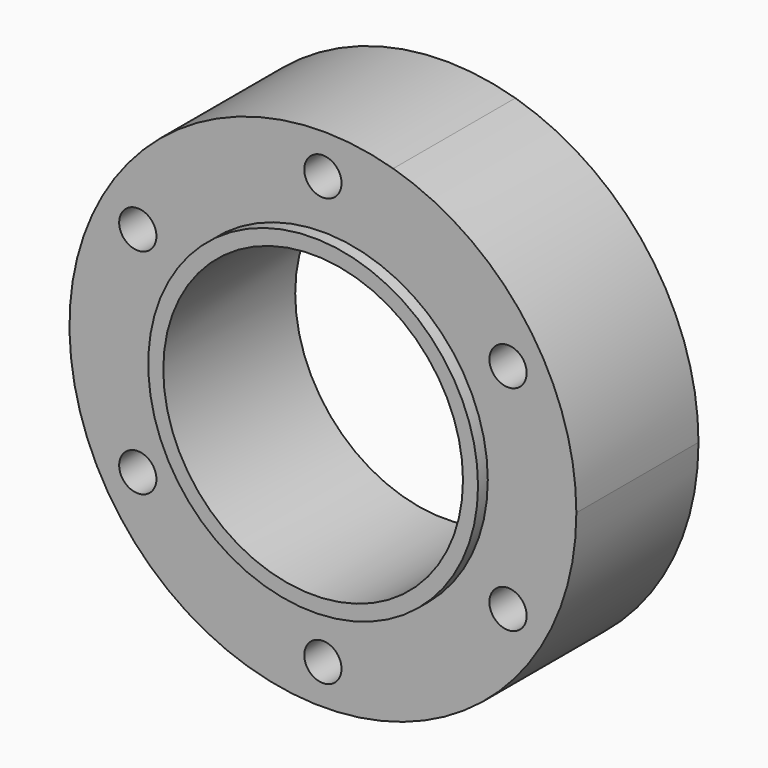
from build123d import *

# Parameters (mm, degrees)
F0_R     = 3.05
F0_R_2   = 27
F1_DEPTH = 25
F3_DEPTH = 27
F4_R     = 24.536421
F5_DEPTH = 27


with BuildPart() as f1:
    # F0 (on Front) → F1 (new body)
    with BuildSketch(Plane.XZ):
        with BuildLine():
            ThreePointArc((11.511698, 39.871429), (-33.166138, -24.945085), (41.5, 0))
            ThreePointArc((41.5, 0), (33.166138, 24.945085), (11.511698, 39.871429))
        make_face()
        with Locations((-30.310889, -17.5)):
            Circle(F0_R, mode=Mode.SUBTRACT)
        with Locations((0, -35)):
            Circle(F0_R, mode=Mode.SUBTRACT)
        with BuildLine():
            ThreePointArc((32.952267, -19.025), (27.364815, -16.710602), (33.360889, -17.5))
            ThreePointArc((33.360889, -17.5), (33.256963, -18.289398), (32.952267, -19.025))
        make_face(mode=Mode.SUBTRACT)
        with Locations((-30.310889, 17.5)):
            Circle(F0_R, mode=Mode.SUBTRACT)
        Circle(F0_R_2, mode=Mode.SUBTRACT)
        with BuildLine():
            ThreePointArc((32.952267, 19.025), (33.256963, 18.289398), (33.360889, 17.5))
            ThreePointArc((33.360889, 17.5), (27.364815, 16.710602), (32.952267, 19.025))
        make_face(mode=Mode.SUBTRACT)
        with Locations((0, 35)):
            Circle(F0_R, mode=Mode.SUBTRACT)
    extrude(amount=F1_DEPTH)

    # F0 (on Front) → F3 (join)
    with BuildSketch(Plane.XZ):
        Circle(F0_R_2)
    extrude(amount=F3_DEPTH)

    # F4 (on Front) → F5 (cut)
    with BuildSketch(Plane.XZ):
        Circle(F4_R)
    extrude(amount=F5_DEPTH, mode=Mode.SUBTRACT)


solid = f1.part
